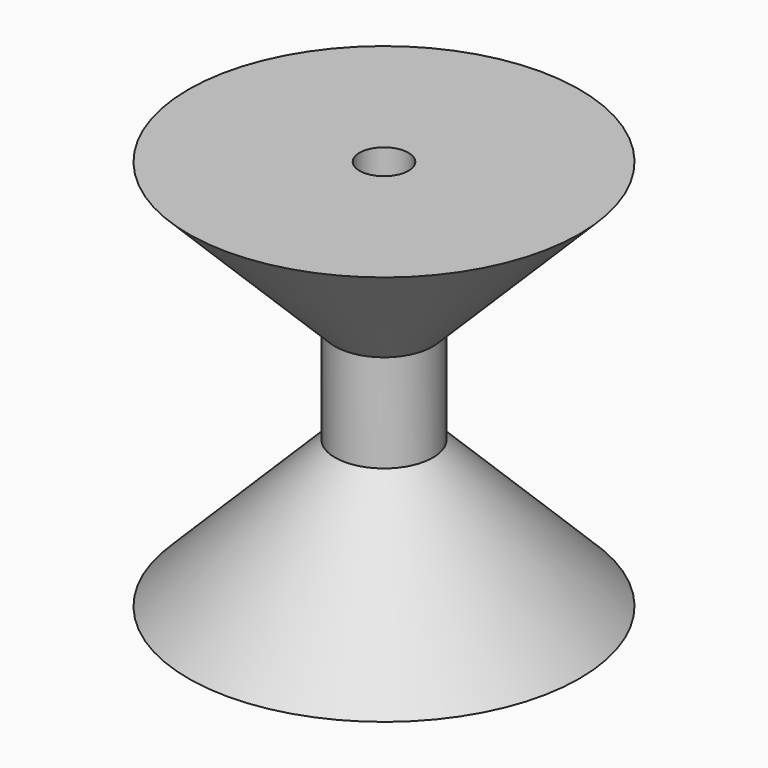
from build123d import *

# Parameters (mm, degrees)
F2_R     = 5
F3_DEPTH = 80


with BuildPart() as f1:
    # F0 (on Front) → F1 (revolve)
    with BuildSketch(Plane.XZ):
        Polygon((-40, 0), (0, 0), (0, 80), (-40, 80), (-10, 50), (-10, 30), align=None)
    revolve(axis=Axis((0, 0, 40), (0, 0, 1)))

    # F2 (on face) → F3 (cut, through all)
    with BuildSketch(Plane(origin=(0, 0, 0), x_dir=(1, 0, 0), z_dir=(0, 0, -1))):
        Circle(F2_R)
    extrude(amount=-F3_DEPTH, mode=Mode.SUBTRACT)


solid = f1.part
